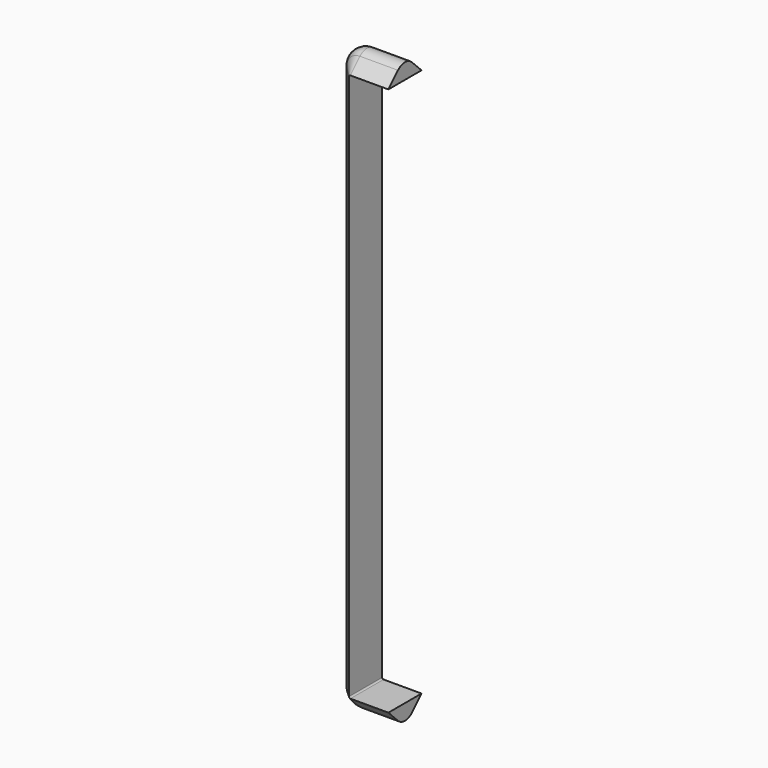
from build123d import *

# Parameters (mm, degrees)
FILLET003_R = 2.6


with BuildPart() as railfillet:
    # Sweep: sweep along a path in Sketch005
    with BuildLine(Plane.XZ) as sweep_path:
        Line((6.5, 0), (6.5, 57.5))
        ThreePointArc((6.5, 57.5), (7.671565, 60.328443), (10.500001, 61.500024))
        Line((10.500001, 61.500024), (18.500001, 61.500024))
    # Sketch011 → Sweep (sweep)
    with BuildSketch(Plane.XY):
        Polygon((10.2, 4.366273), (5.833727, 0), (10.2, -4.366273), align=None)
    sweep(path=sweep_path.line)

    # Fillet003
    fillet003_edges = [railfillet.edges().sort_by_distance(p)[0] for p in [
        (14.500005, 1.3e-05, 62.166285),
    ]]
    fillet(fillet003_edges, radius=FILLET003_R)


with BuildPart() as guide:
    # Part__Mirroring: instance of RailFillet
    add(railfillet.part.mirror(Plane(origin=(0, 0, 0), x_dir=(0, 1, 0), z_dir=(0, 0, 1))))

    # Fusion: union RailFillet
    add(railfillet.part)


solid = guide.part
